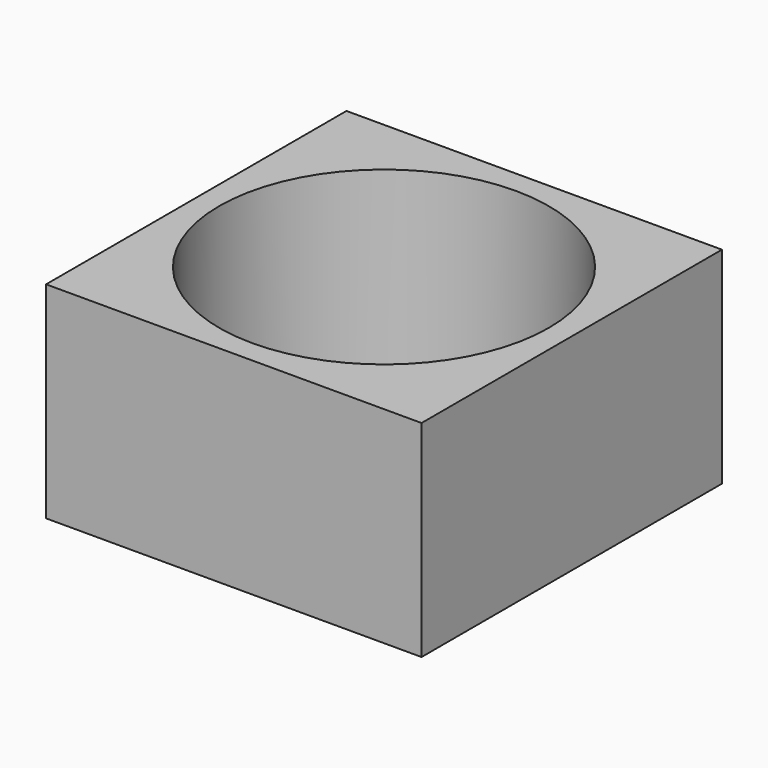
from build123d import *

# Parameters (mm, degrees)
CYLINDER014005154_R     = 18
CYLINDER014005154_DEPTH = 22.5
BOX009_W                = 41
BOX009_H                = 41
BOX009_DEPTH            = 22.5


with BuildPart() as obj1:
    # Cylinder014005154 → Cylinder014005154 (new body)
    with BuildSketch(Plane(origin=(20.5, 20.5, 0), x_dir=(1, 0, 0), z_dir=(0, 0, 1))):
        Circle(CYLINDER014005154_R)
    extrude(amount=CYLINDER014005154_DEPTH)


with BuildPart() as cut061006:
    # Box009 → Box009 (new body)
    with BuildSketch(Plane.XY):
        with Locations((20.5, 20.5)):
            Rectangle(BOX009_W, BOX009_H)
    extrude(amount=BOX009_DEPTH)

    # Cut061006: cut obj1
    add(obj1.part, mode=Mode.SUBTRACT)


solid = cut061006.part
